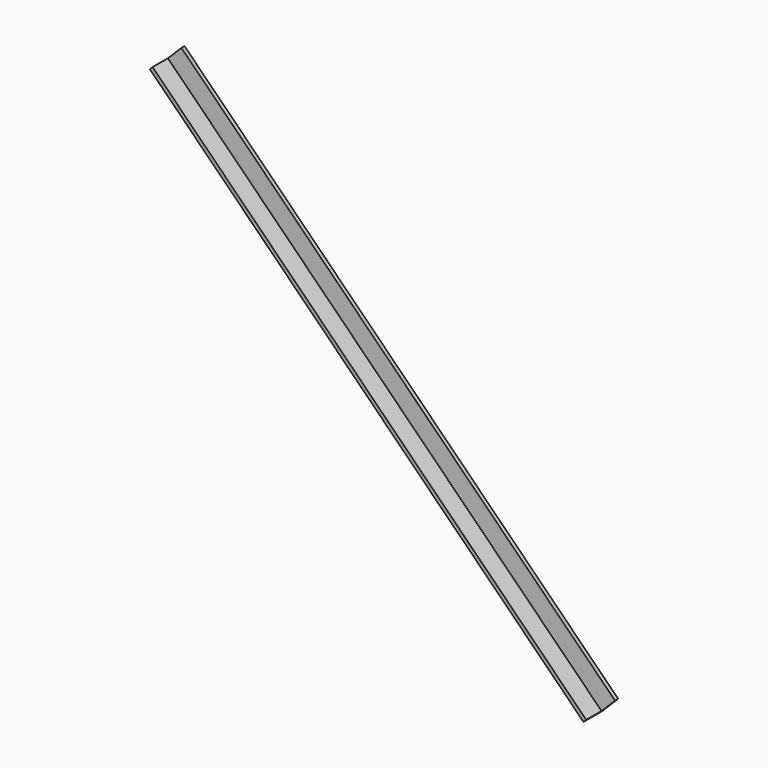
from build123d import *

# Parameters (mm, degrees)
F3_DEPTH = 508


with BuildPart() as f3:
    # F2 (on face) → F3 (new body)
    with BuildSketch(Plane(origin=(0, 0, 0), x_dir=(0, 1, 0), z_dir=(0.707107, 0, -0.707107))):
        Polygon((-19.05, 0), (0, 0), (0, 19.05), (-3.175, 19.05), (-3.175, 3.175), (-19.05, 3.175), align=None)
    extrude(amount=F3_DEPTH)


solid = f3.part
